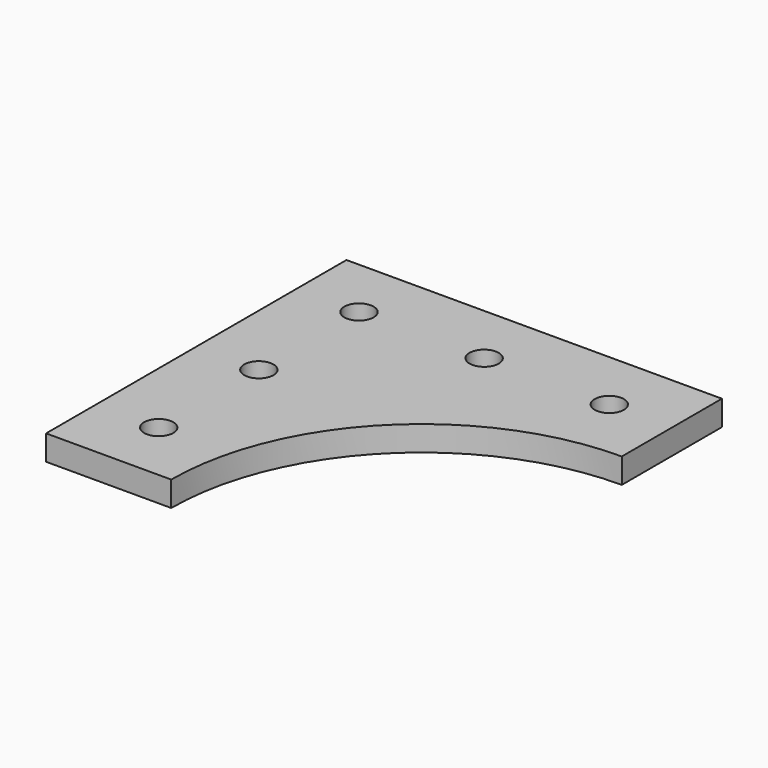
from build123d import *

# Parameters (mm, degrees)
F0_R     = 1.75
F0_W     = 15
F0_H     = 15
F1_DEPTH = 3


with BuildPart() as f1:
    # F0 (on Top) → F1 (new body)
    with BuildSketch(Plane.XY):
        Polygon((45, 45), (15, 45), (15, 30), (30, 30), (45, 30), align=None)
        with Locations((22.5, 37.5)):
            Circle(F0_R, mode=Mode.SUBTRACT)
        with Locations((37.5, 37.5)):
            Circle(F0_R, mode=Mode.SUBTRACT)
        with Locations((7.5, 37.5)):
            Rectangle(F0_W, F0_H)
        with Locations((7.5, 37.5)):
            Circle(F0_R, mode=Mode.SUBTRACT)
        Polygon((15, 30), (0, 30), (0, 15), (0, 0), (15, 0), align=None)
        with Locations((7.5, 7.5)):
            Circle(F0_R, mode=Mode.SUBTRACT)
        with Locations((7.5, 22.5)):
            Circle(F0_R, mode=Mode.SUBTRACT)
        with BuildLine():
            Line((30, 30), (15, 30))
            Line((15, 30), (15, 0))
            ThreePointArc((15, 0), (23.786797, 21.213203), (45, 30))
            Line((45, 30), (30, 30))
        make_face()
    extrude(amount=F1_DEPTH)


solid = f1.part
